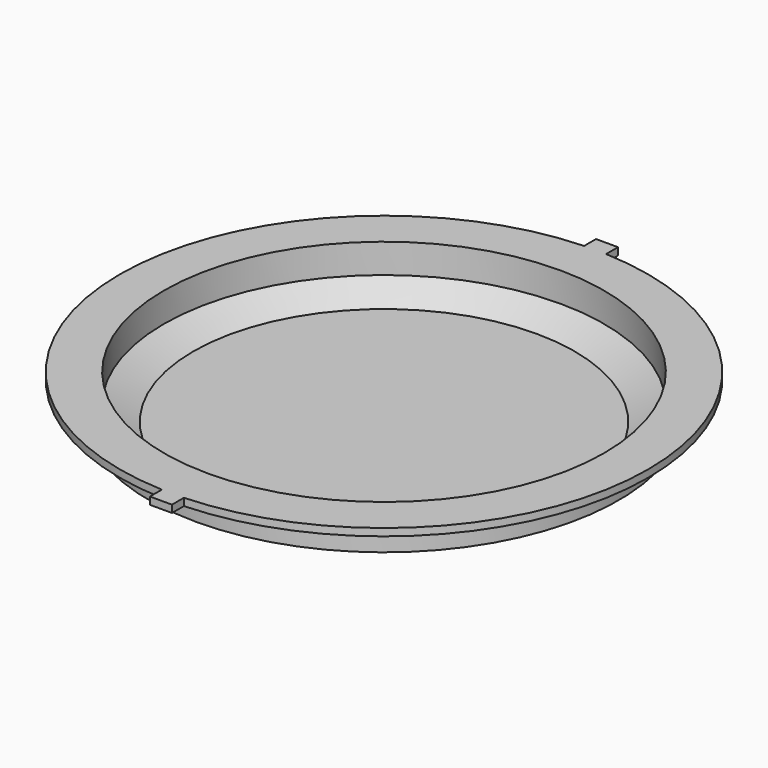
from build123d import *

# Parameters (mm, degrees)
SKETCH019_W             = 1.5
SKETCH019_H             = 1.25
PAD002_DEPTH            = 0.5
POCKET_DEPTH            = 0.1
PAD_DEPTH               = 0.1
BODY002_PLACEMENT_ANGLE = 180


with BuildPart() as part:
    # Sketch018 → Revolution002 (revolve)
    with BuildSketch(Plane.YZ):
        Polygon((0, 3), (0, 4), (13, 4), (16, 2.5), (16, 0.5), (18, 0.5), (18, 0), (15, 0), (15, 2), (13, 3), align=None)
    revolve(axis=Axis((0, 0, 0), (0, 0, 1)))

    # Sketch019 → Pad002 (new body)
    with BuildSketch(Plane.XY):
        with Locations((0, 18.375)):
            Rectangle(SKETCH019_W, SKETCH019_H)
        with Locations((0, -18.375)):
            Rectangle(SKETCH019_W, SKETCH019_H)
    extrude(amount=PAD002_DEPTH)

    # Sketch020 (on Face10 of Pad002) → Pocket (cut)
    with BuildSketch(Plane(origin=(0, 0, 4), x_dir=(0, -1, 0), z_dir=(0, 0, 1))):
        with BuildLine():
            Line((-2.434491, -10.93226), (-2.434491, 10.93226))
            ThreePointArc((2.434491, 10.93226), (0, 11.148441), (-2.434491, 10.93226))
            Line((2.434491, -10.93226), (2.434491, 10.93226))
            ThreePointArc((-2.434491, -10.93226), (0, -11.17381), (2.434491, -10.93226))
        make_face()
    extrude(amount=-POCKET_DEPTH, mode=Mode.SUBTRACT)

    # Sketch021 (on Face21 of Pocket) → Pad (join)
    with BuildSketch(Plane(origin=(0, 0, 3.9), x_dir=(0, -1, 0), z_dir=(0, 0, 1))):
        Polygon((-1.051088, 11.002361), (-0.972425, 8.869409), (-0.10063, 8.667482), (-0.120028, 8.124363), (-1.012698, 8.308082), (-1.012698, 7.40667), (-0.525367, 7.293473), (-0.530311, 7.669809), (1.570168, 7.181732), (1.657325, 8.645967), (-0.50107, 9.244894), (-0.538989, 11.002361), align=None)
        Polygon((0.481582, 8.438001), (0.513538, 7.966647), (1.08875, 7.862789), (1.064194, 8.335846), align=None, mode=Mode.SUBTRACT)
        Polygon((-1.004575, 7.154918), (-0.988205, 6.244779), (0.36954, 6.020473), (0.144834, 5.678259), (-0.85747, 5.861289), (-0.8847, 5.331025), (0.048961, 5.17275), (0.353603, 4.54011), (-0.840038, 4.78926), (-0.940623, 3.317786), (-0.456548, 3.51677), (-0.429325, 4.228536), (0.885667, 3.943839), (0.952781, 4.412285), (0.476029, 5.251191), (0.944792, 5.882269), (0.955392, 6.46267), (-0.413346, 6.697153), (-0.439117, 7.107631), align=None)
        with BuildLine():
            Line((-1.595326, 2.463415), (-1.667228, 1.912171))
            Line((-1.667228, 1.912171), (-0.98497, 1.753897))
            Line((-0.98497, 1.753897), (-0.996148, 1.097288))
            ThreePointArc((-0.996148, 1.097288), (-0.909931, 0.873883), (-0.692449, 0.773661))
            Line((0.502626, 0.457906), (-0.692449, 0.773661))
            ThreePointArc((0.502626, 0.457906), (0.850751, 0.524173), (1.017488, 0.836872))
            Line((1.035793, 1.257814), (1.017488, 0.836872))
            Line((1.728117, 1.121255), (1.035793, 1.257814))
            Line((1.696161, 1.656521), (1.728117, 1.121255))
            Line((0.964921, 1.841128), (1.696161, 1.656521))
            Line((0.987336, 2.501678), (0.964921, 1.841128))
            ThreePointArc((0.987336, 2.501678), (0.938708, 2.665418), (0.801388, 2.766999))
            Line((-0.509837, 3.193234), (0.801388, 2.766999))
            ThreePointArc((-0.509837, 3.193234), (-0.8271, 3.14454), (-0.976837, 2.860628))
            Line((-0.98581, 2.38212), (-0.976837, 2.860628))
            Line((-1.595326, 2.463415), (-0.98581, 2.38212))
        make_face()
        Polygon((-0.285122, 2.479393), (-0.344921, 2.25341), (0.354001, 2.055974), (0.39705, 2.300148), align=None, mode=Mode.SUBTRACT)
        Polygon((-0.341045, 1.544675), (-0.339079, 1.3128), (0.361991, 1.129244), (0.393947, 1.400872), align=None, mode=Mode.SUBTRACT)
        with BuildLine():
            Line((-0.373136, -0.145754), (0.474852, -0.431454))
            Line((0.474852, -0.431454), (0.466107, 0.169897))
            Line((0.466107, 0.169897), (1.048914, 0.365545))
            Line((1.048914, 0.365545), (1.007425, -1.117984))
            Line((1.007425, -1.117984), (-0.293246, -0.872757))
            Line((-0.293246, -0.872757), (-0.299928, -1.222572))
            Line((-0.299928, -1.222572), (0.985002, -1.527859))
            Line((0.985002, -1.527859), (0.945056, -2.27084))
            Line((0.945056, -2.27084), (-0.256349, -2.024415))
            Line((-0.256349, -2.024415), (-0.285257, -2.69426))
            Line((-0.285257, -2.69426), (-0.876366, -2.944678))
            Line((-0.876366, -2.944678), (-0.84449, -1.647695))
            Line((-0.84449, -1.647695), (-0.482957, -1.510189))
            Line((-0.482957, -1.510189), (-0.903417, -1.392168))
            Line((-0.903417, -1.392168), (-0.873512, -0.459889))
            ThreePointArc((-0.373136, -0.145754), (-0.706912, -0.169676), (-0.873512, -0.459889))
        make_face()
        with BuildLine():
            Line((-0.836017, -3.282908), (-0.876294, -4.157938))
            ThreePointArc((-0.876294, -4.157938), (-0.771967, -4.479652), (-0.481546, -4.652971))
            Line((-0.481546, -4.652971), (0.600982, -4.848248))
            ThreePointArc((0.600982, -4.848248), (0.978895, -4.775046), (1.208734, -4.466256))
            Line((1.328705, -4.032862), (1.208734, -4.466256))
            Line((1.377683, -5.114136), (1.328705, -4.032862))
            Line((1.827564, -5.140406), (1.377683, -5.114136))
            Line((1.757688, -3.601044), (1.827564, -5.140406))
            ThreePointArc((1.757688, -3.601044), (1.560758, -3.392599), (1.325631, -3.556752))
            Line((1.266093, -3.790237), (1.325631, -3.556752))
            ThreePointArc((1.026349, -3.780899), (1.142446, -3.882509), (1.266093, -3.790237))
            Line((0.977187, -3.497595), (1.026349, -3.780899))
            ThreePointArc((0.977187, -3.497595), (0.886029, -3.316179), (0.709587, -3.21573))
            Line((-0.263959, -2.994211), (0.709587, -3.21573))
            ThreePointArc((-0.263959, -2.994211), (-0.609501, -3.020633), (-0.836017, -3.282908))
        make_face()
        Polygon((-0.179772, -3.687321), (-0.189214, -4.184654), (0.456341, -4.285789), (0.497845, -3.825146), align=None, mode=Mode.SUBTRACT)
        with BuildLine():
            Line((-0.468422, -5.552885), (0.594216, -5.787834))
            Line((0.594216, -5.787834), (0.594216, -5.355098))
            Line((0.594216, -5.355098), (1.081549, -5.180666))
            Line((1.081549, -5.180666), (1.081549, -6.522826))
            Line((1.081549, -6.522826), (-0.195384, -6.235382))
            Line((-0.195384, -6.235382), (-0.195384, -6.488137))
            Line((-0.195384, -6.488137), (1.105516, -6.978201))
            Line((1.105516, -6.978201), (1.105516, -7.689227))
            Line((1.105516, -7.689227), (-0.14309, -7.324843))
            Line((-0.14309, -7.324843), (-0.169237, -7.595029))
            Line((-0.169237, -7.595029), (-0.770619, -7.47301))
            Line((-0.770619, -7.47301), (-0.652075, -6.858366))
            Line((-0.652075, -6.858366), (-0.317403, -6.858366))
            Line((-0.317403, -6.858366), (-0.787888, -6.658639))
            Line((-0.787888, -6.658639), (-0.787888, -5.814008))
            ThreePointArc((-0.468422, -5.552885), (-0.690064, -5.607705), (-0.787888, -5.814008))
        make_face()
        with BuildLine():
            Line((-0.788226, -7.667088), (-0.744648, -8.477647))
            Line((-0.744648, -8.477647), (0.013617, -8.643245))
            Line((0.013617, -8.643245), (-0.029888, -9.060359))
            Line((-0.029888, -9.060359), (-0.485137, -9.032119))
            ThreePointArc((-0.485137, -9.032119), (-0.682705, -9.10468), (-0.76291, -9.299271))
            Line((-0.76291, -9.299271), (-0.718502, -11.231683))
            Line((-0.718502, -11.231683), (-0.165053, -11.231683))
            Line((-0.165053, -11.231683), (-0.165053, -9.65233))
            Line((-0.165053, -9.65233), (1.203263, -9.857344))
            Line((1.203263, -9.857344), (1.203263, -8.688368))
            ThreePointArc((1.203263, -8.688368), (0.748997, -8.032918), (-0.024208, -8.228178))
            ThreePointArc((-0.199438, -8.167384), (-0.132338, -8.256913), (-0.024208, -8.228178))
            Line((-0.199438, -8.167384), (-0.223065, -7.690382))
            Line((-0.223065, -7.690382), (-0.788226, -7.667088))
        make_face()
        Polygon((0.322334, -8.658413), (0.322334, -9.193679), (0.753406, -9.23806), (0.77771, -8.658413), align=None, mode=Mode.SUBTRACT)
    extrude(amount=PAD_DEPTH)


with BuildPart() as part_1:
    # Body002 placement: moved
    add(part.part.moved(Location((0, 0, 0))).rotate(Axis((0, 0, 0), (0, 1, 0)), BODY002_PLACEMENT_ANGLE))


solid = part_1.part
